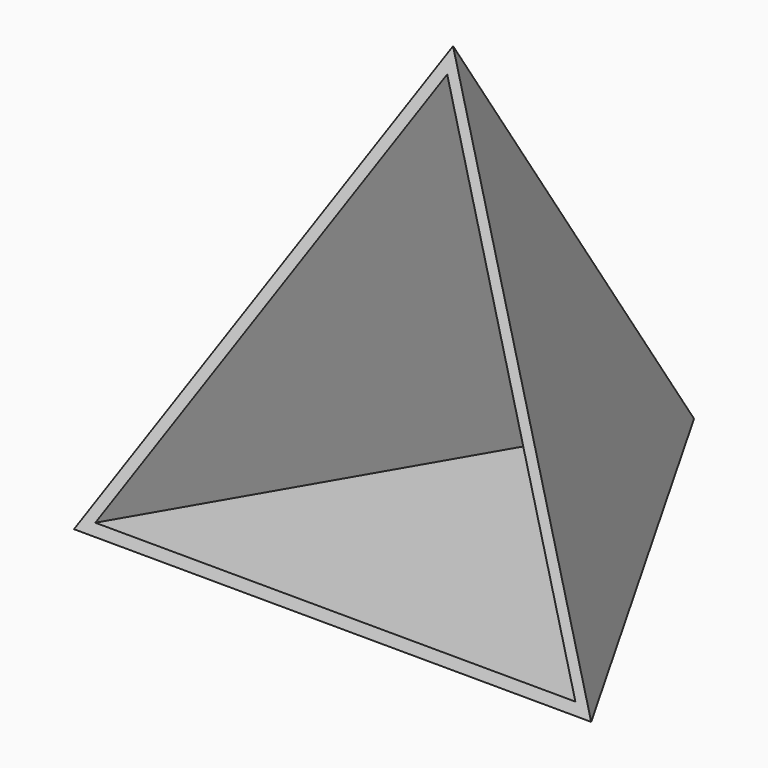
from build123d import *

# Parameters (mm, degrees)
F3_T = -2.54


with BuildPart() as f2:
    # F0 (on Top) → F2 section 0
    with BuildSketch(Plane.XY, mode=Mode.PRIVATE) as f2_s0:
        Polygon((63.3442921748, -36.9301229649), (0.3102785651, 73.3228276906), (-63.6545707399, -36.3927047257), align=None)
    loft([f2_s0.sketch, Vertex(0, 0, 109.982)])

    # F3
    f3_openings = [f2.faces().sort_by_distance(p)[0] for p in [
        (-0.103426, -24.440943, 36.660667),
    ]]
    offset(amount=F3_T, openings=f3_openings, kind=Kind.INTERSECTION)


solid = f2.part
